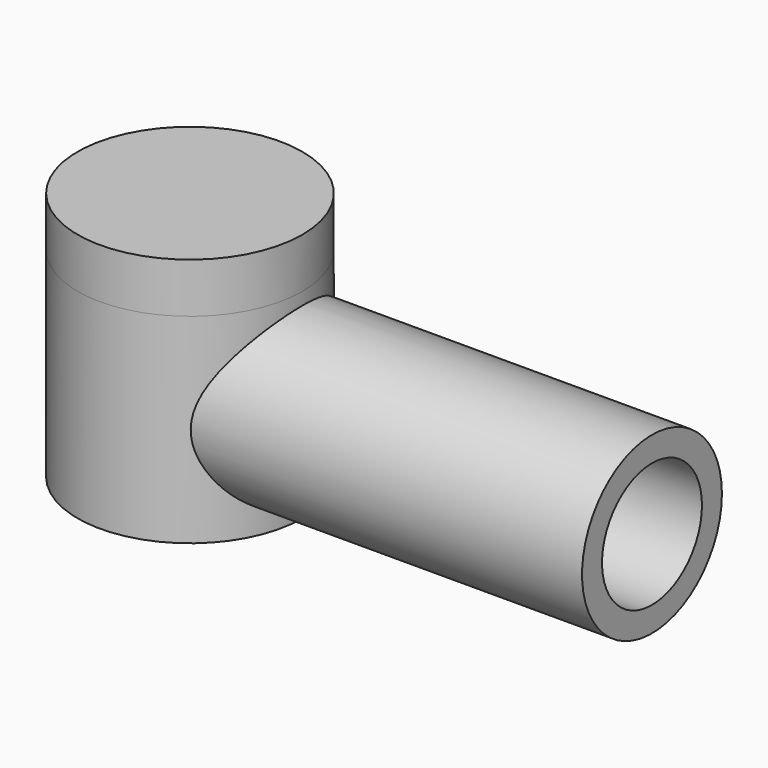
from build123d import *

# Parameters (mm, degrees)
SKETCH_W     = 185
SKETCH_H     = 10
SKETCH001_R  = 45
PAD_DEPTH    = 40
SKETCH002_R  = 45
PAD001_DEPTH = 20


with BuildPart() as part:
    # Sketch → Revolution (revolve)
    with BuildSketch(Plane.XY):
        with Locations((92.5, 30)):
            Rectangle(SKETCH_W, SKETCH_H)
    revolve(axis=Axis((0, 0, 0), (1, 0, 0)))

    # Sketch001 → Pad (new body, symmetric)
    with BuildSketch(Plane.XY):
        Circle(SKETCH001_R)
    extrude(amount=PAD_DEPTH, both=True)

    # Sketch002 (on Face5 of Pad) → Pad001 (join)
    with BuildSketch(Plane.XY.offset(40)):
        Circle(SKETCH002_R)
    extrude(amount=PAD001_DEPTH)


solid = part.part
